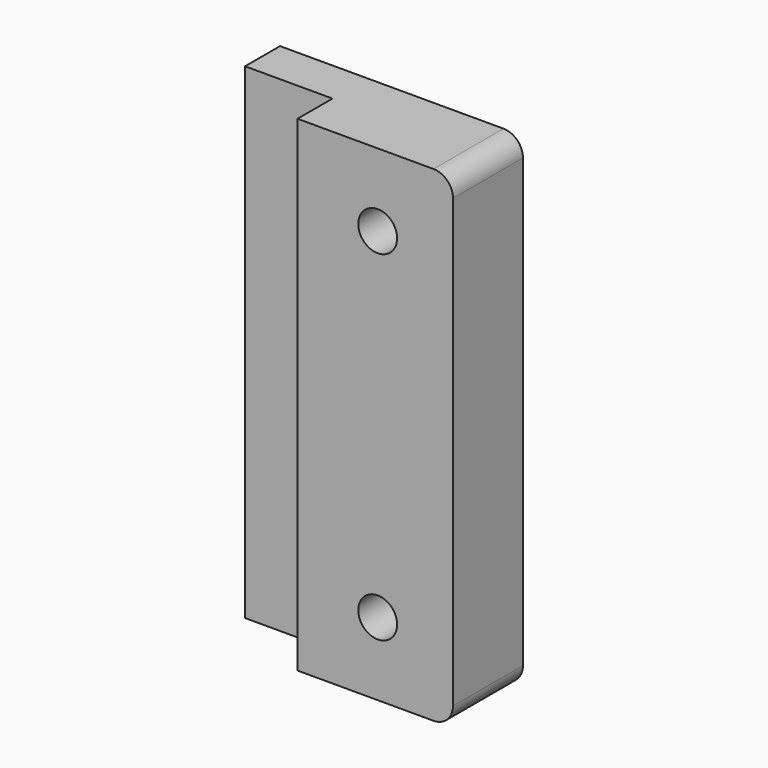
from build123d import *

# Parameters (mm, degrees)
F0_R     = 4
F1_DEPTH = 18
F0_W     = 18
F0_H     = 100
F2_DEPTH = 9


with BuildPart() as f1:
    # F0 (on Front) → F1 (new body)
    with BuildSketch(Plane.XZ):
        with BuildLine():
            Line((-59.240983, 23.115967), (-59.240983, 115.115967))
            ThreePointArc((-59.240983, 115.115967), (-60.412556, 117.944394), (-63.240983, 119.115967))
            Line((-63.240983, 119.115967), (-91.240983, 119.115967))
            Line((-91.240983, 119.115967), (-91.240983, 19.115967))
            Line((-91.240983, 19.115967), (-63.240983, 19.115967))
            ThreePointArc((-63.240983, 19.115967), (-60.412556, 20.287539), (-59.240983, 23.115967))
        make_face()
        with Locations((-74.740983, 34.115967)):
            Circle(F0_R, mode=Mode.SUBTRACT)
        with Locations((-74.740983, 104.115967)):
            Circle(F0_R, mode=Mode.SUBTRACT)
    extrude(amount=F1_DEPTH)

    # F0 (on Front) → F2 (join)
    with BuildSketch(Plane.XZ):
        with Locations((-100.240983, 69.115967)):
            Rectangle(F0_W, F0_H)
    extrude(amount=F2_DEPTH)


solid = f1.part
